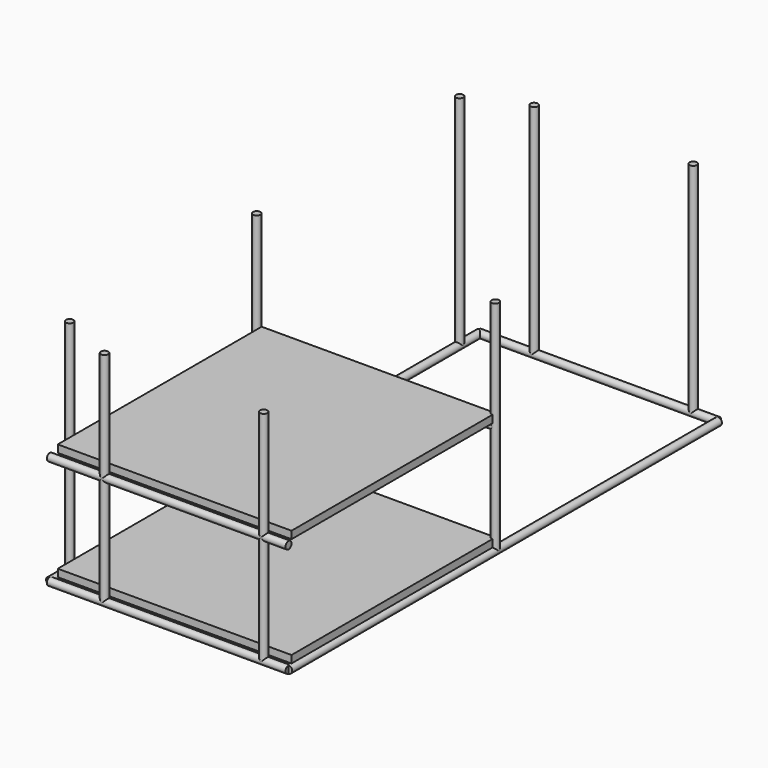
from build123d import *

# Parameters (mm, degrees)
F0_R      = 9.525
F1_DEPTH  = 1371.6
F2_R      = 9.525
F3_DEPTH  = 609.6
F4_R      = 9.525
F5_DEPTH  = 558.8
F6_R      = 9.525
F7_DEPTH  = 609.6
F9_W      = 596.9
F9_H      = 650.875
F10_DEPTH = 19.05
F12_W     = 596.9
F12_H     = 650.875
F13_DEPTH = 19.05


with BuildPart() as f1:
    # F0 (on Front) → F1 (new body)
    with BuildSketch(Plane.XZ):
        Circle(F0_R)
        with Locations((-609.6, 0)):
            Circle(F0_R)
    extrude(amount=-F1_DEPTH)


with BuildPart() as f3:
    # F2 (on Right) → F3 (new body)
    with BuildSketch(Plane.YZ):
        Circle(F2_R)
        with Locations((1371.6, 0)):
            Circle(F2_R)
    extrude(amount=-F3_DEPTH)


with BuildPart() as f5:
    # F4 (on Top) → F5 (new body)
    with BuildSketch(Plane.XY):
        with Locations((-63.5, 0)):
            Circle(F4_R)
        with Locations((-469.9, 0)):
            Circle(F4_R)
        with Locations((-609.6, 63.5)):
            Circle(F4_R)
        with Locations((-609.6, 1308.1)):
            Circle(F4_R)
        with Locations((-469.9, 1371.6)):
            Circle(F4_R)
        with Locations((-63.5, 1371.6)):
            Circle(F4_R)
        with Locations((-609.6, 660.4)):
            Circle(F4_R)
        with Locations((0, 660.4)):
            Circle(F4_R)
    extrude(amount=F5_DEPTH)


with BuildPart() as f7:
    # F6 (on Right) → F7 (new body)
    with BuildSketch(Plane.YZ):
        with Locations((660.4, 0)):
            Circle(F6_R)
        with Locations((660.4, 279.4)):
            Circle(F6_R)
        with Locations((0, 279.4)):
            Circle(F6_R)
    extrude(amount=-F7_DEPTH)


with BuildPart() as f10:
    # F9 (on offset) → F10 (new body)
    with BuildSketch(Plane.XY.offset(9.525)):
        with Locations((-298.45, 334.9625)):
            Rectangle(F9_W, F9_H)
    extrude(amount=F10_DEPTH)


with BuildPart() as f13:
    # F12 (on offset) → F13 (new body)
    with BuildSketch(Plane.XY.offset(288.925)):
        with Locations((-298.45, 334.9625)):
            Rectangle(F12_W, F12_H)
    extrude(amount=F13_DEPTH)


solid = Compound([f1.part, f3.part, f5.part, f7.part, f10.part, f13.part])
